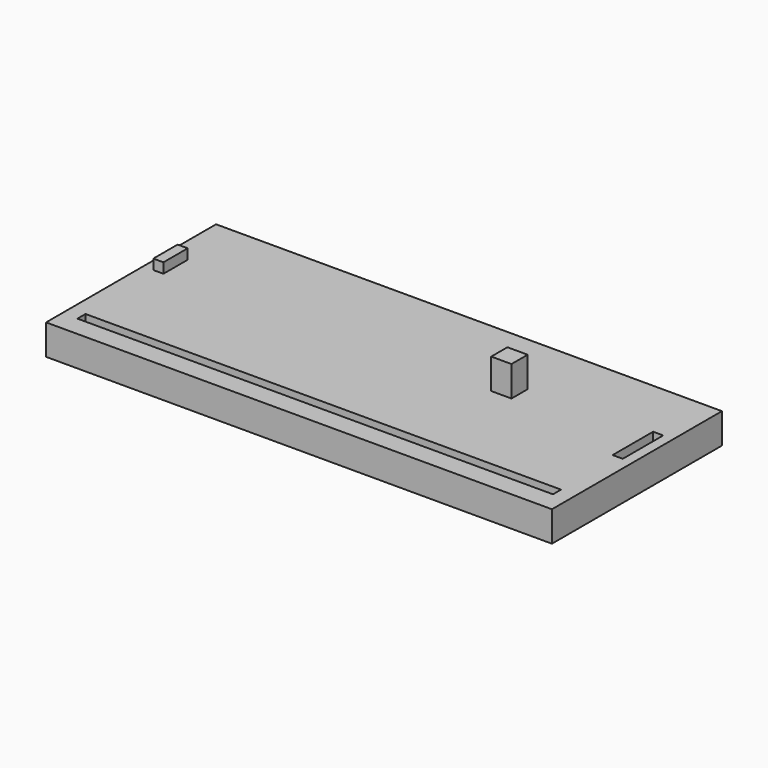
from build123d import *

# Parameters (mm, degrees)
BOX003_W        = 94
BOX003_H        = 2
BOX003_DEPTH    = 3
BOX002_W        = 100
BOX002_H        = 42
BOX002_DEPTH    = 6
SKETCH013_W     = 2
SKETCH013_H     = 10
POCKET006_DEPTH = 2
SKETCH015_W     = 2
SKETCH015_H     = 6
PAD007_DEPTH    = 2
SKETCH021_W     = 4
SKETCH021_H     = 4
PAD011_DEPTH    = 6


with BuildPart() as cube003:
    # Box003 → Box003 (new body)
    with BuildSketch(Plane(origin=(123, 4, -3), x_dir=(1, 0, 0), z_dir=(0, 0, 1))):
        with Locations((47, 1)):
            Rectangle(BOX003_W, BOX003_H)
    extrude(amount=BOX003_DEPTH)


with BuildPart() as roof_body:
    # Box002 → Box002 (new body)
    with BuildSketch(Plane(origin=(120, 0, -6), x_dir=(1, 0, 0), z_dir=(0, 0, 1))):
        with Locations((50, 21)):
            Rectangle(BOX002_W, BOX002_H)
    extrude(amount=BOX002_DEPTH)

    # Cut001: cut Cube003
    add(cube003.part, mode=Mode.SUBTRACT)

    # Sketch013 (on Face3 of BaseFeature) → Pocket006 (cut)
    with BuildSketch(Plane.XY):
        with Locations((217, 25)):
            Rectangle(SKETCH013_W, SKETCH013_H)
    extrude(amount=-POCKET006_DEPTH, mode=Mode.SUBTRACT)

    # Sketch015 (on Face3 of Pocket006) → Pad007 (join)
    with BuildSketch(Plane.XY):
        with Locations((123, 27)):
            Rectangle(SKETCH015_W, SKETCH015_H)
    extrude(amount=PAD007_DEPTH)

    # Sketch021 (on Face3 of Pad007) → Pad011 (join)
    with BuildSketch(Plane.XY):
        with Locations((190, 27)):
            Rectangle(SKETCH021_W, SKETCH021_H)
    extrude(amount=PAD011_DEPTH)


solid = roof_body.part
